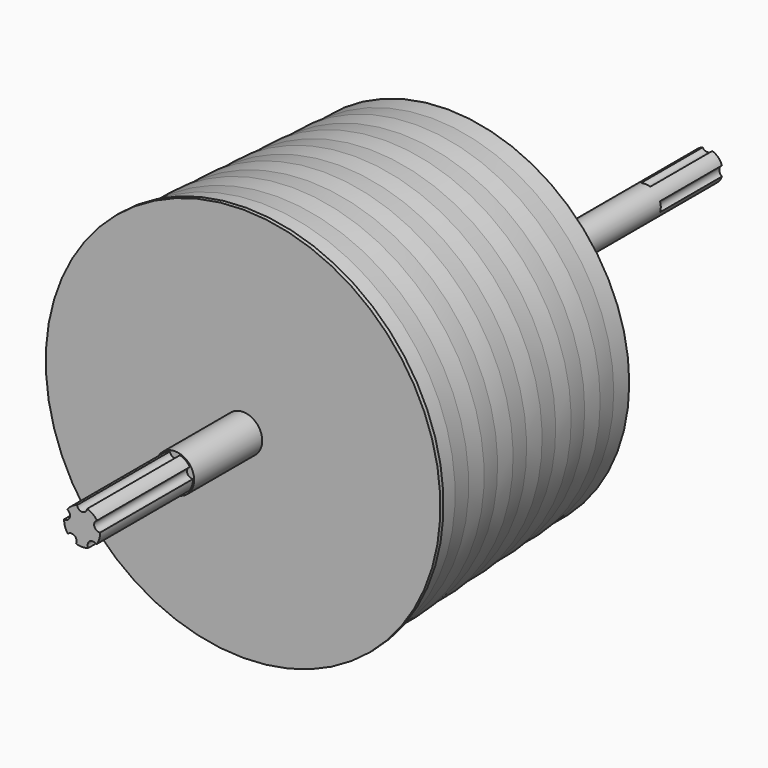
from build123d import *

# Parameters (mm, degrees)
F0_R     = 2.475
F1_DEPTH = 11
F3_DEPTH = 15
F7_DEPTH = 10


with BuildPart() as f1:
    # F0 (on Front) → F1 (new body)
    with BuildSketch(Plane.XZ):
        Circle(F0_R)
    extrude(amount=F1_DEPTH)

    # F2 (on face) → F3 (join)
    with BuildSketch(Plane.XZ.offset(11)):
        with BuildLine():
            ThreePointArc((0.65, 2.2322914236), (0, 1.66842184), (-0.65, 2.2322914236))
            ThreePointArc((-0.65, 2.2322914236), (-1.3666007116, 1.8809645119), (-1.9221742584, 1.3080027219))
            ThreePointArc((-1.9221742584, 1.3080027219), (-1.5867634629, 0.5155707024), (-2.3238963511, 0.0716292507))
            ThreePointArc((-2.3238963511, 0.0716292507), (-2.2112064004, -0.7184645119), (-1.837969024, -1.4239012841))
            ThreePointArc((-1.837969024, -1.4239012841), (-0.9806737522, -1.3497816224), (-0.7862469313, -2.1880221121))
            ThreePointArc((-0.7862469313, -2.1880221121), (0, -2.325), (0.7862469313, -2.1880221121))
            ThreePointArc((0.7862469313, -2.1880221121), (0.9806737522, -1.3497816224), (1.837969024, -1.4239012841))
            ThreePointArc((1.837969024, -1.4239012841), (2.2112064004, -0.7184645119), (2.3238963511, 0.0716292507))
            ThreePointArc((2.3238963511, 0.0716292507), (1.5867634629, 0.5155707024), (1.9221742584, 1.3080027219))
            ThreePointArc((1.9221742584, 1.3080027219), (1.3666007116, 1.8809645119), (0.65, 2.2322914236))
        make_face()
    extrude(amount=F3_DEPTH)

    # F4 (on Right) → F5 (revolve)
    with BuildSketch(Plane.YZ):
        Polygon((0, 25.5), (0, 0), (75, 0), (75, 1.975), (39, 1.975), (39, 2.475), (33, 2.475), (33, 23.5), (30.5, 23.5), (28, 23.75), (25.5, 23.75), (23, 24), (20.5, 24), (18, 24.25), (15.5, 24.25), (13, 24.5), (10.5, 24.5), (8, 24.75), (5.5, 24.75), (3, 25), (0.5, 25), (0.5, 25.5), align=None)
    revolve(axis=Axis((0, 0, 0), (0, -1, 0)))

    # F6 (on face) → F7 (cut)
    with BuildSketch(Plane(origin=(0, 75, 0), x_dir=(-1, 0, 0), z_dir=(0, 1, 0))):
        with BuildLine():
            ThreePointArc((0.625, 1.8734993995), (0, 1.975), (-0.625, 1.8734993995))
            ThreePointArc((-0.625, 1.8734993995), (0, 1.5380774983), (0.625, 1.8734993995))
        make_face()
        with BuildLine():
            ThreePointArc((-1.8734993995, 0.625), (-1.975, 0), (-1.8734993995, -0.625))
            ThreePointArc((-1.8734993995, -0.625), (-1.5380774983, 0), (-1.8734993995, 0.625))
        make_face()
        with BuildLine():
            ThreePointArc((-0.625, -1.8734993995), (0, -1.975), (0.625, -1.8734993995))
            ThreePointArc((0.625, -1.8734993995), (0, -1.5380774983), (-0.625, -1.8734993995))
        make_face()
        with BuildLine():
            ThreePointArc((1.8734993995, -0.625), (1.975, 0), (1.8734993995, 0.625))
            ThreePointArc((1.8734993995, 0.625), (1.5380774983, 0), (1.8734993995, -0.625))
        make_face()
    extrude(amount=-F7_DEPTH, mode=Mode.SUBTRACT)


solid = f1.part
